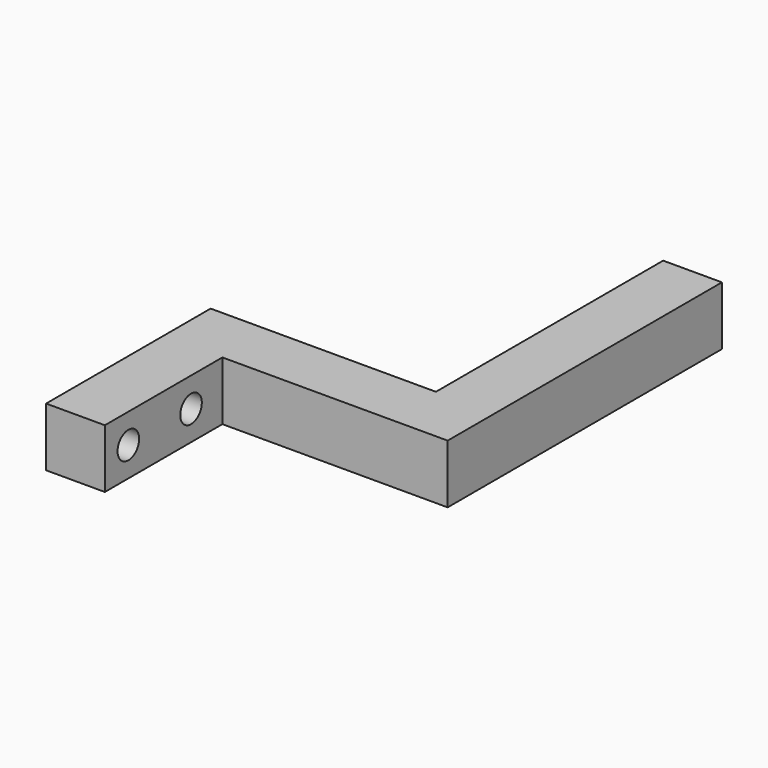
from build123d import *

# Parameters (mm, degrees)
F1_DEPTH = 12
F2_R     = 2.75
F3_DEPTH = 12.001


with BuildPart() as f1:
    # F0 (on Top) → F1 (new body)
    with BuildSketch(Plane.XY):
        Polygon((0, 12), (0, 0), (0, -30), (12, -30), (12, 0), (58, 0), (58, 70), (46, 70), (46, 12), align=None)
    extrude(amount=F1_DEPTH)

    # F2 (on face) → F3 (cut, through all)
    with BuildSketch(Plane.YZ.offset(12)):
        with Locations((-24, 6)):
            Circle(F2_R)
        with Locations((-8, 6)):
            Circle(F2_R)
    extrude(amount=-F3_DEPTH, mode=Mode.SUBTRACT)


solid = f1.part
